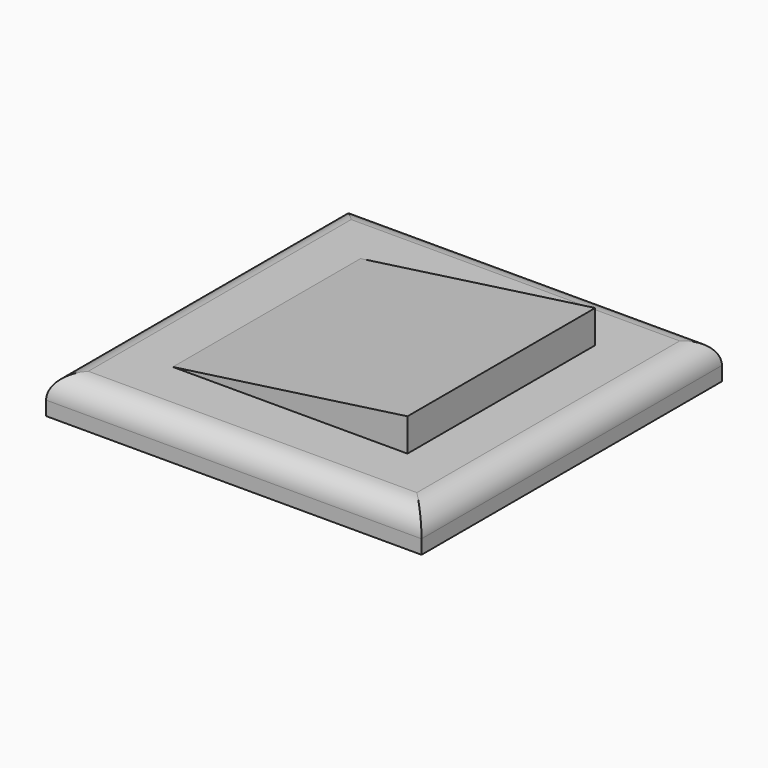
from build123d import *

# Parameters (mm, degrees)
F0_W     = 80
F0_H     = 80
F0_W_2   = 50
F0_H_2   = 50
F1_DEPTH = 8
F2_DEPTH = 15
F4_DEPTH = 50
F5_R     = 5


with BuildPart() as f1:
    # F0 (on Top) → F1 (new body)
    with BuildSketch(Plane.XY):
        with Locations((-26.835108, 8.357681)):
            Rectangle(F0_W, F0_H)
        with Locations((-26.835108, 8.357681)):
            Rectangle(F0_W_2, F0_H_2, mode=Mode.SUBTRACT)
    extrude(amount=F1_DEPTH)

    # F0 (on Top) → F2 (join)
    with BuildSketch(Plane.XY):
        with Locations((-26.835108, 8.357681)):
            Rectangle(F0_W_2, F0_H_2)
    extrude(amount=F2_DEPTH)

    # F3 (on face) → F4 (cut, through all)
    with BuildSketch(Plane.XZ.offset(16.642319)):
        Polygon((-51.835108, 15), (-51.835108, 8), (-1.835108, 15), align=None)
    extrude(amount=-F4_DEPTH, mode=Mode.SUBTRACT)

    # F5
    f5_edges = [f1.edges().sort_by_distance(p)[0] for p in [
        (-26.835108, 48.357681, 8),
        (-66.835108, 8.357681, 8),
        (-26.835108, -31.642319, 8),
        (13.164892, 8.357681, 8),
    ]]
    fillet(f5_edges, radius=F5_R)


solid = f1.part
